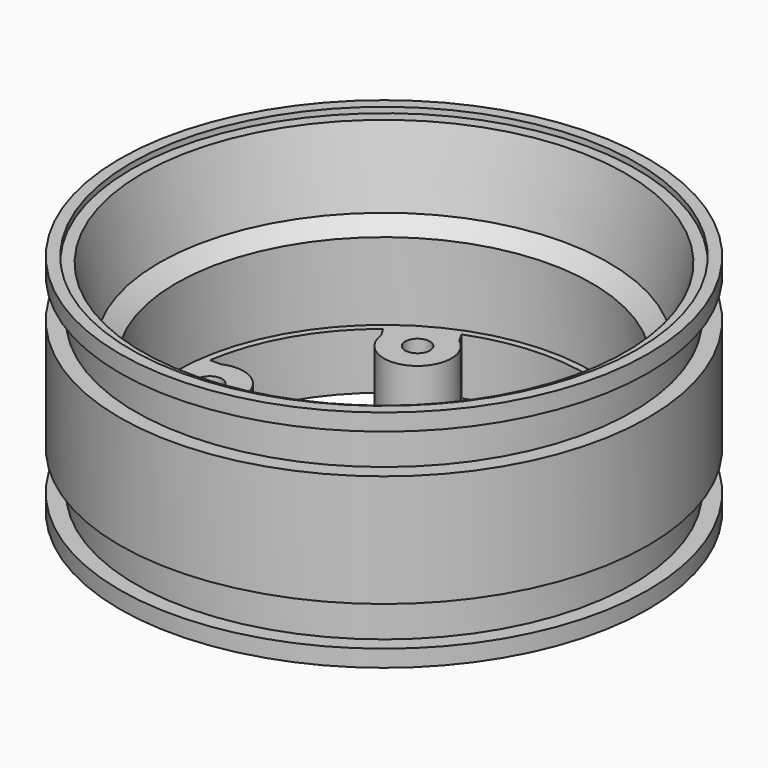
from build123d import *

# Parameters (mm, degrees)
CYLINDER154_R             = 1.1
CYLINDER154_DEPTH         = 5
BOX024_W                  = 2
BOX024_H                  = 5.5
BOX024_DEPTH              = 5
BOX023_W                  = 0.75
BOX023_H                  = 8
BOX023_DEPTH              = 5
CYLINDER153_R             = 3
CYLINDER153_DEPTH         = 5
CUT033013_PLACEMENT_ANGLE = 120
CYLINDER157_R             = 1.1
CYLINDER157_DEPTH         = 5
CUT033016_PLACEMENT_ANGLE = 60
CYLINDER155_R             = 1.1
CYLINDER155_DEPTH         = 5
CUT033014_PLACEMENT_ANGLE = 180
CYLINDER158_R             = 1.1
CYLINDER158_DEPTH         = 5
CYLINDER156_R             = 1.1
CYLINDER156_DEPTH         = 5
CUT033015_PLACEMENT_ANGLE = 240
CYLINDER152_R             = 1.1
CYLINDER152_DEPTH         = 5
CUT033012_PLACEMENT_ANGLE = 60
CYLINDER143_R             = 18.5
CYLINDER143_DEPTH         = 7
CYLINDER144_R             = 22.5
CYLINDER144_DEPTH         = 0.5
CYLINDER145_R             = 20
CYLINDER145_DEPTH         = 7
CYLINDER142_R             = 17.9
CYLINDER142_DEPTH         = 20
CYLINDER138_R             = 22.1
CYLINDER138_DEPTH         = 17
CYLINDER139_R             = 23.5
CYLINDER139_DEPTH         = 17
CYLINDER137_R             = 23.5
CYLINDER137_DEPTH         = 20
CYLINDER140_R             = 22
CYLINDER140_DEPTH         = 17
CYLINDER141_R             = 23.5
CYLINDER141_DEPTH         = 10
CUT033011_PLACEMENT_ANGLE = 180
CHAMFER_SIZE2             = 6.499
CHAMFER_SIZE              = 1.5


with BuildPart() as cylinder154:
    # Cylinder154 → Cylinder154 (new body)
    with BuildSketch(Plane(origin=(15.5, 0, 15), x_dir=(1, 0, 0), z_dir=(0, 0, 1))):
        Circle(CYLINDER154_R)
    extrude(amount=CYLINDER154_DEPTH)


with BuildPart() as cube024:
    # Box024 → Box024 (new body)
    with BuildSketch(Plane(origin=(16.5, -2.75, 15), x_dir=(1, 0, 0), z_dir=(0, 0, 1))):
        with Locations((1, 2.75)):
            Rectangle(BOX024_W, BOX024_H)
    extrude(amount=BOX024_DEPTH)


with BuildPart() as cube023:
    # Box023 → Box023 (new body)
    with BuildSketch(Plane(origin=(18.2, -4, 15), x_dir=(1, 0, 0), z_dir=(0, 0, 1))):
        with Locations((0.375, 4)):
            Rectangle(BOX023_W, BOX023_H)
    extrude(amount=BOX023_DEPTH)


with BuildPart() as cylinder153:
    # Cylinder153 → Cylinder153 (new body)
    with BuildSketch(Plane(origin=(15.5, 0, 15), x_dir=(1, 0, 0), z_dir=(0, 0, 1))):
        Circle(CYLINDER153_R)
    extrude(amount=CYLINDER153_DEPTH)


with BuildPart() as cut033013:
    # Fusion040005 base: copy of Cylinder153
    add(cylinder153.part)

    # Fusion040005: union Cube024, Cube023
    add(cube024.part)
    add(cube023.part)

    # Cut033013: cut Cylinder154
    add(cylinder154.part, mode=Mode.SUBTRACT)


with BuildPart() as cut033013_1:
    # Cut033013 placement: moved
    add(cut033013.part.moved(Location((0, 0, 9))).rotate(Axis((0, 0, 9), (0, 0, 1)), CUT033013_PLACEMENT_ANGLE))


with BuildPart() as cylinder157:
    # Cylinder157 → Cylinder157 (new body)
    with BuildSketch(Plane(origin=(15.5, 0, 15), x_dir=(1, 0, 0), z_dir=(0, 0, 1))):
        Circle(CYLINDER157_R)
    extrude(amount=CYLINDER157_DEPTH)


with BuildPart() as cut033016:
    # Fusion040008 base: copy of Cylinder153
    add(cylinder153.part)

    # Fusion040008: union Cube024, Cube023
    add(cube024.part)
    add(cube023.part)

    # Cut033016: cut Cylinder157
    add(cylinder157.part, mode=Mode.SUBTRACT)


with BuildPart() as cut033016_1:
    # Cut033016 placement: moved
    add(cut033016.part.moved(Location((0, 0, 9))).rotate(Axis((0, 0, 9), (0, 0, -1)), CUT033016_PLACEMENT_ANGLE))


with BuildPart() as cylinder155:
    # Cylinder155 → Cylinder155 (new body)
    with BuildSketch(Plane(origin=(15.5, 0, 15), x_dir=(1, 0, 0), z_dir=(0, 0, 1))):
        Circle(CYLINDER155_R)
    extrude(amount=CYLINDER155_DEPTH)


with BuildPart() as cut033014:
    # Fusion040006 base: copy of Cylinder153
    add(cylinder153.part)

    # Fusion040006: union Cube024, Cube023
    add(cube024.part)
    add(cube023.part)

    # Cut033014: cut Cylinder155
    add(cylinder155.part, mode=Mode.SUBTRACT)


with BuildPart() as cut033014_1:
    # Cut033014 placement: moved
    add(cut033014.part.moved(Location((0, 0, 9))).rotate(Axis((0, 0, 9), (0, 0, 1)), CUT033014_PLACEMENT_ANGLE))


with BuildPart() as cylinder158:
    # Cylinder158 → Cylinder158 (new body)
    with BuildSketch(Plane(origin=(15.5, 0, 15), x_dir=(1, 0, 0), z_dir=(0, 0, 1))):
        Circle(CYLINDER158_R)
    extrude(amount=CYLINDER158_DEPTH)


with BuildPart() as cut033006:
    # Fusion040009 base: copy of Cylinder153
    add(cylinder153.part)

    # Fusion040009: union Cube024, Cube023
    add(cube024.part)
    add(cube023.part)

    # Cut033006: cut Cylinder158
    add(cylinder158.part, mode=Mode.SUBTRACT)


with BuildPart() as cut033006_1:
    # Cut033006 placement: moved
    add(cut033006.part.moved(Location((0, 0, 9))))


with BuildPart() as cylinder156:
    # Cylinder156 → Cylinder156 (new body)
    with BuildSketch(Plane(origin=(15.5, 0, 15), x_dir=(1, 0, 0), z_dir=(0, 0, 1))):
        Circle(CYLINDER156_R)
    extrude(amount=CYLINDER156_DEPTH)


with BuildPart() as cut033015:
    # Fusion040007 base: copy of Cylinder153
    add(cylinder153.part)

    # Fusion040007: union Cube024, Cube023
    add(cube024.part)
    add(cube023.part)

    # Cut033015: cut Cylinder156
    add(cylinder156.part, mode=Mode.SUBTRACT)


with BuildPart() as cut033015_1:
    # Cut033015 placement: moved
    add(cut033015.part.moved(Location((0, 0, 9))).rotate(Axis((0, 0, 9), (0, 0, 1)), CUT033015_PLACEMENT_ANGLE))


with BuildPart() as cylinder152:
    # Cylinder152 → Cylinder152 (new body)
    with BuildSketch(Plane(origin=(15.5, 0, 15), x_dir=(1, 0, 0), z_dir=(0, 0, 1))):
        Circle(CYLINDER152_R)
    extrude(amount=CYLINDER152_DEPTH)


with BuildPart() as fusion040010:
    # Fusion040004 base: copy of Cylinder153
    add(cylinder153.part)

    # Fusion040004: union Cube024, Cube023
    add(cube024.part)
    add(cube023.part)

    # Cut033012: cut Cylinder152
    add(cylinder152.part, mode=Mode.SUBTRACT)


with BuildPart() as fusion040010_1:
    # Cut033012 placement: moved
    add(fusion040010.part.moved(Location((0, 0, 9))).rotate(Axis((0, 0, 9), (0, 0, 1)), CUT033012_PLACEMENT_ANGLE))

    # Fusion040010: union Cut033013, Cut033016, Cut033014, Cut033006, Cut033015
    add(cut033013_1.part)
    add(cut033016_1.part)
    add(cut033014_1.part)
    add(cut033006_1.part)
    add(cut033015_1.part)


with BuildPart() as cylinder143:
    # Cylinder143 → Cylinder143 (new body)
    with BuildSketch(Plane.XY.offset(8)):
        Circle(CYLINDER143_R)
    extrude(amount=CYLINDER143_DEPTH)


with BuildPart() as cone001:
    # Cone001 → Cone001 (revolve)
    with BuildSketch(Plane(origin=(0, 0, 7), x_dir=(1, 0, 0), z_dir=(0, -1, 0))):
        Polygon((0, 0), (20, 0), (12, 6), (0, 6), align=None)
    revolve(axis=Axis((0, 0, 7), (0, 0, 1)))


with BuildPart() as cylinder144:
    # Cylinder144 → Cylinder144 (new body)
    with BuildSketch(Plane.XY):
        Circle(CYLINDER144_R)
    extrude(amount=CYLINDER144_DEPTH)


with BuildPart() as cylinder145:
    # Cylinder145 → Cylinder145 (new body)
    with BuildSketch(Plane.XY):
        Circle(CYLINDER145_R)
    extrude(amount=CYLINDER145_DEPTH)


with BuildPart() as cylinder142:
    # Cylinder142 → Cylinder142 (new body)
    with BuildSketch(Plane.XY):
        Circle(CYLINDER142_R)
    extrude(amount=CYLINDER142_DEPTH)


with BuildPart() as cylinder138:
    # Cylinder138 → Cylinder138 (new body)
    with BuildSketch(Plane.XY):
        Circle(CYLINDER138_R)
    extrude(amount=CYLINDER138_DEPTH)


with BuildPart() as cut033005:
    # Cylinder139 → Cylinder139 (new body)
    with BuildSketch(Plane.XY):
        Circle(CYLINDER139_R)
    extrude(amount=CYLINDER139_DEPTH)

    # Cut033005: cut Cylinder138
    add(cylinder138.part, mode=Mode.SUBTRACT)


with BuildPart() as cut033005_1:
    # Cut033005 placement: moved
    add(cut033005.part.moved(Location((0, 0, 1.5))))


with BuildPart() as cut033004:
    # Cylinder137 → Cylinder137 (new body)
    with BuildSketch(Plane.XY):
        Circle(CYLINDER137_R)
    extrude(amount=CYLINDER137_DEPTH)

    # Cut033004: cut Cut033005
    add(cut033005_1.part, mode=Mode.SUBTRACT)


with BuildPart() as cylinder140:
    # Cylinder140 → Cylinder140 (new body)
    with BuildSketch(Plane.XY):
        Circle(CYLINDER140_R)
    extrude(amount=CYLINDER140_DEPTH)


with BuildPart() as obj1:
    # Cylinder141 → Cylinder141 (new body)
    with BuildSketch(Plane.XY.offset(0.5)):
        Circle(CYLINDER141_R)
    extrude(amount=CYLINDER141_DEPTH)

    # Cut033003: cut Cylinder140
    add(cylinder140.part, mode=Mode.SUBTRACT)


with BuildPart() as obj1_1:
    # Cut033003 placement: moved
    add(obj1.part.moved(Location((0, 0, 4.5))))

    # Fusion040003: union Cut033004
    add(cut033004.part)

    # Cut033007: cut Cylinder142
    add(cylinder142.part, mode=Mode.SUBTRACT)

    # Cut033009: cut Cylinder145
    add(cylinder145.part, mode=Mode.SUBTRACT)

    # Cut033008: cut Cylinder144
    add(cylinder144.part, mode=Mode.SUBTRACT)

    # Cut033010: cut Cone001
    add(cone001.part, mode=Mode.SUBTRACT)

    # Cut033011: cut Cylinder143
    add(cylinder143.part, mode=Mode.SUBTRACT)


with BuildPart() as obj1_2:
    # Cut033011 placement: moved
    add(obj1_1.part.moved(Location((0, 0, 44))).rotate(Axis((0, 0, 44), (0, 1, 0)), CUT033011_PLACEMENT_ANGLE))

    # Fusion040011: union Fusion040010
    add(fusion040010_1.part)


with BuildPart() as obj1_3:
    # Fusion040011 placement: moved
    add(obj1_2.part.moved(Location((0, 0, -44))))

    # Chamfer
    chamfer_edges = [obj1_3.edges().sort_by_distance(p)[0] for p in [
        (20, 0, -0.5),
    ]]
    chamfer_side = obj1_3.faces().sort_by_distance((21.863604, 0, -0.5))[0]
    chamfer(chamfer_edges, length=CHAMFER_SIZE, length2=CHAMFER_SIZE2, reference=chamfer_side)


solid = obj1_3.part
